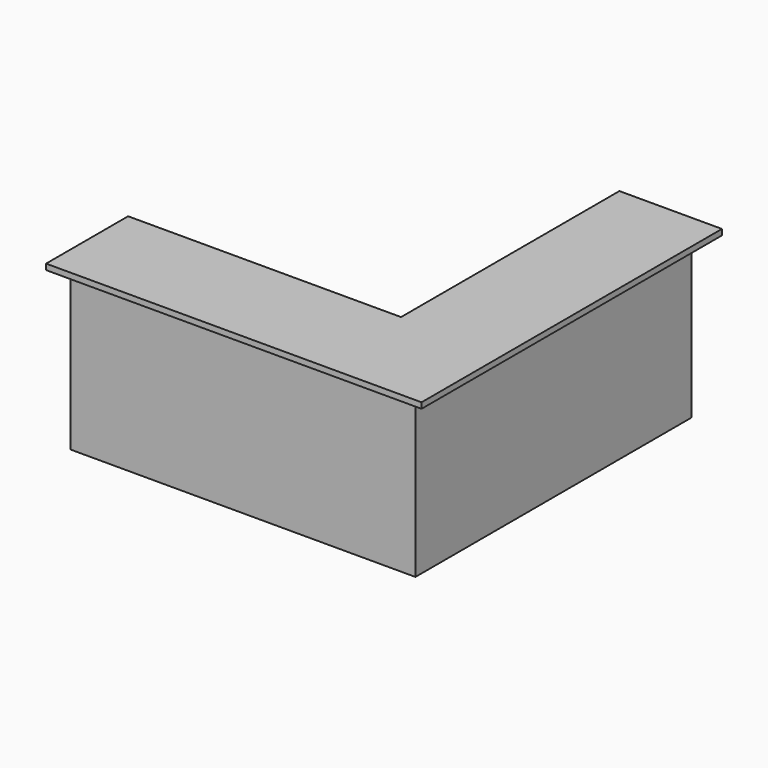
from build123d import *

# Parameters (mm, degrees)
F4_W     = 1575.6
F4_H     = 38.1
F5_DEPTH = 609.6


with BuildPart() as f3:
    # F3: sweep along a path in F0
    with BuildLine(Plane.XY) as f3_path:
        Line((0, 2490), (0, 0))
        Line((0, 0), (-2490, 0))
    # F2 (on line) → F3 (sweep)
    with BuildSketch(Plane.XZ.offset(-2490)):
        Polygon((-203.2, 0), (-203.2, 1130.3), (0, 1130.3), (0, 1168.4), (-680, 1168.4), (-680, 1130.3), (-304.8, 1130.3), (-304.8, 927.1), (-914.4, 927.1), (-914.4, 889), (-304.8, 889), (-304.8, 0), align=None)
    sweep(path=f3_path.line, transition=Transition.RIGHT)

    # F4 (on face) → F5 (cut, through all)
    with BuildSketch(Plane(origin=(0, 914.4, 0), x_dir=(-1, 0, 0), z_dir=(0, 1, 0))):
        with Locations((1702.2, 908.05)):
            Rectangle(F4_W, F4_H)
    extrude(amount=-F5_DEPTH, mode=Mode.SUBTRACT)


solid = f3.part
